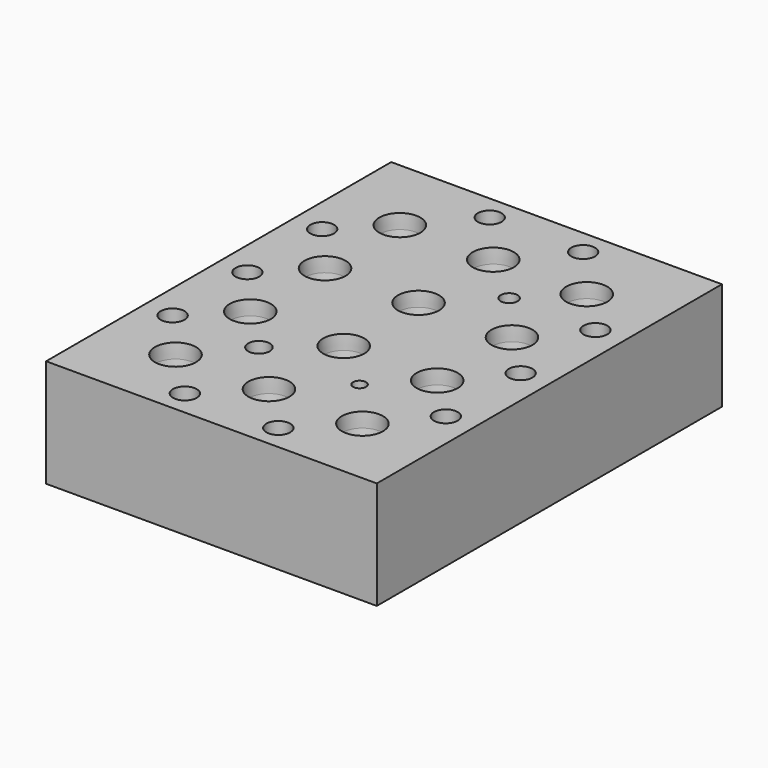
from build123d import *

# Parameters (mm, degrees)
CYLINDER001_R     = 1.65
CYLINDER001_DEPTH = 30
ARRAY002_X_COUNT  = 2
ARRAY002_X_PITCH  = 13
ARRAY002_Y_COUNT  = 2
ARRAY002_Y_PITCH  = 53
CYLINDER003_R     = 0.9
CYLINDER003_DEPTH = 10
CYLINDER004_R     = 1.175
CYLINDER004_DEPTH = 10
CYLINDER005_R     = 1.5
CYLINDER005_DEPTH = 10
CYLINDER_R        = 1.65
CYLINDER_DEPTH    = 30
ARRAY001_X_COUNT  = 2
ARRAY001_X_PITCH  = 38
ARRAY001_Y_COUNT  = 3
ARRAY001_Y_PITCH  = 13
ARRAY_X_COUNT     = 3
ARRAY_X_PITCH     = 13
ARRAY_Y_COUNT     = 4
ARRAY_Y_PITCH     = 13
BOX_W             = 46
BOX_H             = 60
BOX_DEPTH         = 15


with BuildPart() as array002:
    # Cylinder001 → Cylinder001 (new body)
    with BuildSketch(Plane.XY.offset(-20)):
        Circle(CYLINDER001_R)
    extrude(amount=CYLINDER001_DEPTH)

    # Array002 X: Array002 ×2


with BuildPart() as array002_1:
    add(array002.part)
    with Locations(*[(i * ARRAY002_X_PITCH, 0, 0) for i in range(1, ARRAY002_X_COUNT)]):
        add(array002.part)

    # Array002 Y: Array002 ×2


with BuildPart() as array002_2:
    add(array002_1.part)
    with Locations(*[(0, i * ARRAY002_Y_PITCH, 0) for i in range(1, ARRAY002_Y_COUNT)]):
        add(array002_1.part)


with BuildPart() as array002_3:
    # Array002 placement: moved
    add(array002_2.part.moved(Location((16.5, 3.5, 0))))


with BuildPart() as cylinder003:
    # Cylinder003 → Cylinder003 (new body)
    with BuildSketch(Plane(origin=(30, 17, -9), x_dir=(1, 0, 0), z_dir=(0, 0, 1))):
        Circle(CYLINDER003_R)
    extrude(amount=CYLINDER003_DEPTH)


with BuildPart() as cylinder004:
    # Cylinder004 → Cylinder004 (new body)
    with BuildSketch(Plane(origin=(30, 43, -9), x_dir=(1, 0, 0), z_dir=(0, 0, 1))):
        Circle(CYLINDER004_R)
    extrude(amount=CYLINDER004_DEPTH)


with BuildPart() as cylinder005:
    # Cylinder005 → Cylinder005 (new body)
    with BuildSketch(Plane(origin=(16, 17, -9), x_dir=(1, 0, 0), z_dir=(0, 0, 1))):
        Circle(CYLINDER005_R)
    extrude(amount=CYLINDER005_DEPTH)


with BuildPart() as hole_union:
    # Cylinder → Cylinder (new body)
    with BuildSketch(Plane.XY.offset(-20)):
        Circle(CYLINDER_R)
    extrude(amount=CYLINDER_DEPTH)

    # Array001 X: hole union ×2


with BuildPart() as hole_union_1:
    add(hole_union.part)
    with Locations(*[(i * ARRAY001_X_PITCH, 0, 0) for i in range(1, ARRAY001_X_COUNT)]):
        add(hole_union.part)

    # Array001 Y: hole union ×3


with BuildPart() as hole_union_2:
    add(hole_union_1.part)
    with Locations(*[(0, i * ARRAY001_Y_PITCH, 0) for i in range(1, ARRAY001_Y_COUNT)]):
        add(hole_union_1.part)


with BuildPart() as hole_union_3:
    # Array001 placement: moved
    add(hole_union_2.part.moved(Location((4, 17, 0))))

    # Fusion001: union Array002, Cylinder003, Cylinder004, Cylinder005
    add(array002_3.part)
    add(cylinder003.part)
    add(cylinder004.part)
    add(cylinder005.part)


with BuildPart() as top_cone:
    # Cone → Cone (revolve)
    with BuildSketch(Plane(origin=(0, 0, -7), x_dir=(1, 0, 0), z_dir=(0, -1, 0))):
        Polygon((0, 0), (2.8, 0), (3, 7), (0, 7), align=None)
    revolve(axis=Axis((0, 0, -7), (0, 0, 1)))


with BuildPart() as cone_array:
    # Cone001 → Cone001 (revolve)
    with BuildSketch(Plane(origin=(0, 0, -19), x_dir=(-1, 0, 0), z_dir=(0, 1, 0))):
        Polygon((0, 0), (1.2, 0), (2.8, 12), (0, 12), align=None)
    revolve(axis=Axis((0, 0, -19), (0, 0, 1)))

    # Fusion: union top cone
    add(top_cone.part)


with BuildPart() as cone_array_1:
    # Fusion placement: moved
    add(cone_array.part.moved(Location((0, 0, 5))))

    # Array X: cone array ×3


with BuildPart() as cone_array_2:
    add(cone_array_1.part)
    with Locations(*[(i * ARRAY_X_PITCH, 0, 0) for i in range(1, ARRAY_X_COUNT)]):
        add(cone_array_1.part)

    # Array Y: cone array ×4


with BuildPart() as cone_array_3:
    add(cone_array_2.part)
    with Locations(*[(0, i * ARRAY_Y_PITCH, 0) for i in range(1, ARRAY_Y_COUNT)]):
        add(cone_array_2.part)


with BuildPart() as cone_array_4:
    # Array placement: moved
    add(cone_array_3.part.moved(Location((10, 10, 0))))


with BuildPart() as all_cut:
    # Box → Box (new body)
    with BuildSketch(Plane.XY.offset(-15)):
        with Locations((23, 30)):
            Rectangle(BOX_W, BOX_H)
    extrude(amount=BOX_DEPTH)

    # Cut: cut cone array
    add(cone_array_4.part, mode=Mode.SUBTRACT)

    # Cut001: cut hole union
    add(hole_union_3.part, mode=Mode.SUBTRACT)


solid = all_cut.part
